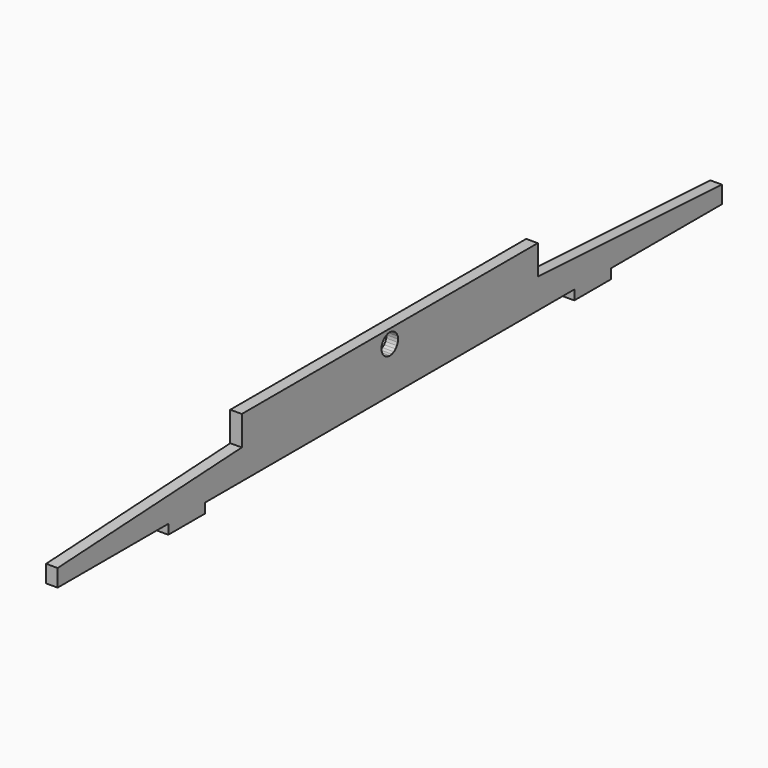
from build123d import *

# Parameters (mm, degrees)
F1_DEPTH = 5


with BuildPart() as f1:
    # F0 (on Right) → F1 (new body)
    with BuildSketch(Plane.YZ):
        Polygon((80.200017, 14.962505), (-80.199992, 14.962505), (-80.199992, 2.181149), (-179.999996, -3.262478), (-179.999996, -10.762488), (-119.999989, -10.762488), (-119.999989, -14.96248), (-99.999978, -14.96248), (-99.999978, -10.762488), (100.000003, -10.762488), (100.000003, -14.96248), (120.000014, -14.96248), (120.000014, -10.762488), (180.000021, -10.762488), (180.000021, -3.262478), (80.200017, 2.181149), align=None)
        Polygon((1.164692, 4.723435), (0, 4.570095), (-1.164666, 4.723435), (-2.249983, 5.172989), (-3.18196, 5.888126), (-3.897097, 6.820103), (-4.346651, 7.90542), (-4.499991, 9.070111), (-4.346651, 10.234778), (-3.897097, 11.320094), (-3.18196, 12.252071), (-2.249983, 12.967208), (-1.164666, 13.416763), (0, 13.570102), (1.164692, 13.416763), (2.250008, 12.967208), (3.181985, 12.252071), (3.897122, 11.320094), (4.346677, 10.234778), (4.500016, 9.070111), (4.346677, 7.90542), (3.897122, 6.820103), (3.181985, 5.888126), (2.250008, 5.172989), align=None, mode=Mode.SUBTRACT)
    extrude(amount=F1_DEPTH)


solid = f1.part
